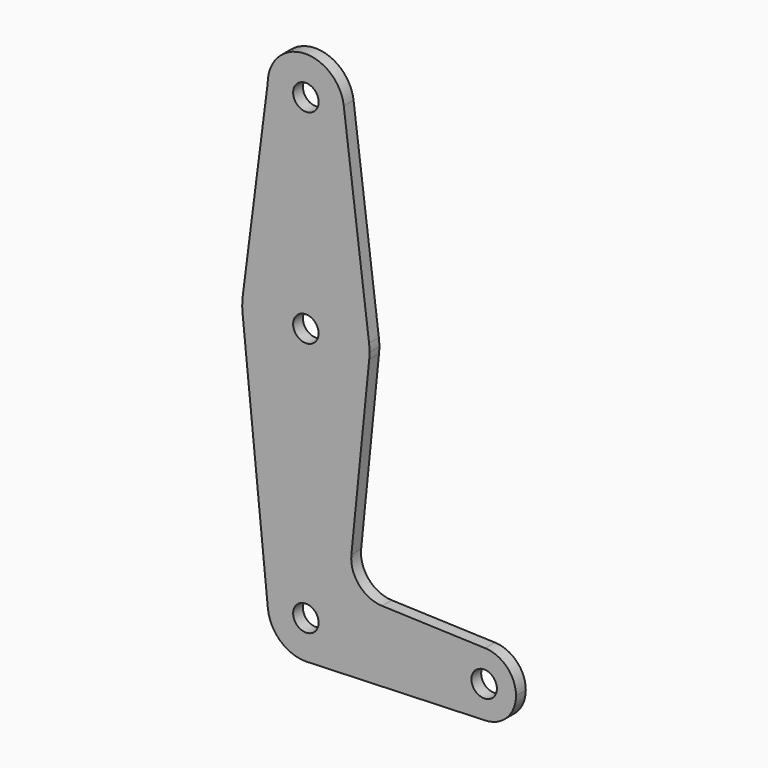
from build123d import *

# Parameters (mm, degrees)
F0_R     = 3.175
F1_DEPTH = 3.048


with BuildPart() as f1:
    # F0 (on Front) → F1 (new body)
    with BuildSketch(Plane.XZ):
        with BuildLine():
            ThreePointArc((-9.525, 114.3), (0, 104.775), (9.525, 114.3))
            ThreePointArc((9.525, 114.3), (9.506305, 114.896483), (9.450293, 115.490625))
            ThreePointArc((9.450293, 115.490625), (-0.596483, 123.806305), (-9.525, 114.3))
        make_face()
        with Locations((0, 114.3)):
            Circle(F0_R, mode=Mode.SUBTRACT)
        with BuildLine():
            ThreePointArc((9.450293, 115.490625), (9.506305, 114.896483), (9.525, 114.3))
            ThreePointArc((9.525, 114.3), (0, 104.775), (-9.525, 114.3))
            Line((-9.525, 114.3), (-15.747457, 65.508289))
            ThreePointArc((-15.747457, 65.508289), (0.012053, 79.374995), (15.750488, 65.484375))
            Line((15.750488, 65.484375), (9.450293, 115.490625))
        make_face()
        with BuildLine():
            ThreePointArc((15.875, 63.5), (15.843841, 64.494139), (15.750488, 65.484375))
            ThreePointArc((15.750488, 65.484375), (0.012053, 79.374995), (-15.747457, 65.508289))
            ThreePointArc((-15.747457, 65.508289), (-15.873588, 63.711757), (-15.795426, 61.9125))
            ThreePointArc((-15.795426, 61.9125), (0, 47.625), (15.795426, 61.9125))
            ThreePointArc((15.795426, 61.9125), (15.855094, 62.705253), (15.875, 63.5))
        make_face()
        with Locations((0, 63.5)):
            Circle(F0_R, mode=Mode.SUBTRACT)
        with BuildLine():
            ThreePointArc((15.795426, 61.9125), (0, 47.625), (-15.795426, 61.9125))
            Line((-15.795426, 61.9125), (-9.477255, -0.9525))
            ThreePointArc((-9.477255, -0.9525), (-0.476848, 9.513056), (9.525, 0))
            ThreePointArc((9.525, 0), (6.970557, -6.491299), (0.677344, -9.500886))
            Line((0.677344, -9.500886), (44.732405, -7.932475))
            ThreePointArc((44.732405, -7.932475), (36.5125, 0.000539), (44.733482, 7.932436))
            Line((44.733482, 7.932436), (18.9676, 8.853234))
            ThreePointArc((18.9676, 8.853234), (13.2612, 11.571359), (11.341187, 17.593382))
            Line((11.341187, 17.593382), (15.795426, 61.9125))
        make_face()
        with BuildLine():
            ThreePointArc((9.525, 0), (-0.476848, 9.513056), (-9.477255, -0.9525))
            ThreePointArc((-9.477255, -0.9525), (-6.389564, -7.063929), (0, -9.525))
            Line((0, -9.525), (0.677344, -9.500886))
            ThreePointArc((0.677344, -9.500886), (6.970557, -6.491299), (9.525, 0))
        make_face()
        Circle(F0_R, mode=Mode.SUBTRACT)
        with BuildLine():
            Line((0.677344, -9.500886), (0, -9.525))
            ThreePointArc((0, -9.525), (0.338886, -9.51897), (0.677344, -9.500886))
        make_face()
        with BuildLine():
            ThreePointArc((52.3875, 0), (50.162007, 5.511523), (44.733482, 7.932436))
            ThreePointArc((44.733482, 7.932436), (36.5125, 0.000539), (44.732405, -7.932475))
            ThreePointArc((44.732405, -7.932475), (50.161633, -5.51191), (52.3875, 0))
        make_face()
        with Locations((44.45, 0)):
            Circle(F0_R, mode=Mode.SUBTRACT)
    extrude(amount=F1_DEPTH)


solid = f1.part
